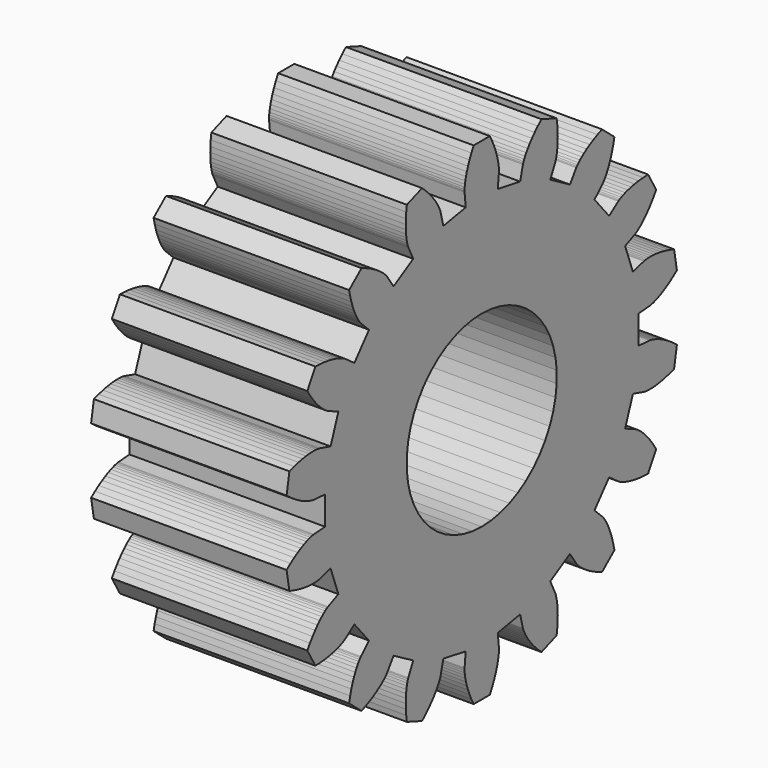
from build123d import *

# Parameters (mm, degrees)
PRISM_DEPTH               = 7
LINEAREXTRUDE_DEPTH       = 5
DIFFERENCE004_PITCH_ANGLE = 90


with BuildPart() as prism:
    # prism → prism (new body)
    with BuildSketch(Plane.XY.offset(-1)):
        Polygon((2.4, 0), (2.381075, 0.3008), (2.3246, 0.596856), (2.231464, 0.883499), (2.103136, 1.156209), (1.941641, 1.410685), (1.749525, 1.642913), (1.529818, 1.849232), (1.285984, 2.026387), (1.02187, 2.171585), (0.741641, 2.282536), (0.449715, 2.357489), (0.150697, 2.395264), (-0.150697, 2.395264), (-0.449715, 2.357489), (-0.741641, 2.282536), (-1.02187, 2.171585), (-1.285984, 2.026387), (-1.529818, 1.849232), (-1.749525, 1.642913), (-1.941641, 1.410685), (-2.103136, 1.156209), (-2.231464, 0.883499), (-2.3246, 0.596856), (-2.381075, 0.3008), (-2.4, 0), (-2.381075, -0.3008), (-2.3246, -0.596856), (-2.231464, -0.883499), (-2.103136, -1.156209), (-1.941641, -1.410685), (-1.749525, -1.642913), (-1.529818, -1.849232), (-1.285984, -2.026387), (-1.02187, -2.171585), (-0.741641, -2.282536), (-0.449715, -2.357489), (-0.150697, -2.395264), (0.150697, -2.395264), (0.449715, -2.357489), (0.741641, -2.282536), (1.02187, -2.171585), (1.285984, -2.026387), (1.529818, -1.849232), (1.749525, -1.642913), (1.941641, -1.410685), (2.103136, -1.156209), (2.231464, -0.883499), (2.3246, -0.596856), (2.381075, -0.3008), align=None)
    extrude(amount=PRISM_DEPTH)


with BuildPart() as pinion:
    # RefineLinearExtrude → LinearExtrude (new body)
    with BuildSketch(Plane(origin=(0, 0, 0), x_dir=(0, -1, 0), z_dir=(0, 0, -1))):
        Polygon((-0.504573, -5.68792), (-0.476443, -5.78688), (-0.438951, -5.89728), (-0.390882, -6.0184), (-0.331072, -6.14942), (-0.258414, -6.28943), (0.258414, -6.28943), (0.331072, -6.14942), (0.390882, -6.0184), (0.438951, -5.89728), (0.476443, -5.78688), (0.504573, -5.68792), (0.524602, -5.60104), (0.537828, -5.52677), (0.54558, -5.46553), (0.54921, -5.41766), (0.550092, -5.38338), (0.549605, -5.36281), (0.549136, -5.35596), (0.512344, -4.997112), (1.227667, -4.870981), (1.315827, -5.220772), (1.317729, -5.227369), (1.324307, -5.246865), (1.33686, -5.278776), (1.356644, -5.322518), (1.384874, -5.377413), (1.422704, -5.44268), (1.47124, -5.517471), (1.53152, -5.600842), (1.60451, -5.691761), (1.691105, -5.789136), (1.79212, -5.891798), (1.908282, -5.998514), (2.393941, -5.821748), (2.414331, -5.665331), (2.425723, -5.521757), (2.429468, -5.3915), (2.426939, -5.274935), (2.419527, -5.172322), (2.408633, -5.083832), (2.39566, -5.009517), (2.381999, -4.949319), (2.369037, -4.903094), (2.358142, -4.87058), (2.350649, -4.851417), (2.347865, -4.845141), (2.190559, -4.520517), (2.819603, -4.157338), (3.022082, -4.455881), (3.026126, -4.46143), (3.038975, -4.477501), (3.061685, -4.503194), (3.095236, -4.537531), (3.140539, -4.579461), (3.198411, -4.627853), (3.269599, -4.681533), (3.354758, -4.739259), (3.454443, -4.799731), (3.56912, -4.861616), (3.699155, -4.923538), (3.844811, -4.984088), (4.240724, -4.651878), (4.206387, -4.49792), (4.167986, -4.359108), (4.126954, -4.235426), (4.084711, -4.126756), (4.04265, -4.032866), (4.002148, -3.953438), (3.964539, -3.888042), (3.931113, -3.836147), (3.903124, -3.797143), (3.881765, -3.770316), (3.86817, -3.754872), (3.863407, -3.749926), (3.60456, -3.498681), (4.071454, -2.942259), (4.363829, -3.153546), (4.369527, -3.157377), (4.387098, -3.168084), (4.417226, -3.18446), (4.460498, -3.205251), (4.517409, -3.229158), (4.588342, -3.254839), (4.673597, -3.280933), (4.773364, -3.306052), (4.887719, -3.328783), (5.016646, -3.347714), (5.160018, -3.361427), (5.317599, -3.368508), (5.576013, -2.920922), (5.49109, -2.787993), (5.407528, -2.670686), (5.32667, -2.568497), (5.249807, -2.480828), (5.17817, -2.406987), (5.112944, -2.346201), (5.055237, -2.297612), (5.006078, -2.260279), (4.966436, -2.2332), (4.93719, -2.215296), (4.919132, -2.205433), (4.912965, -2.202414), (4.583798, -2.054853), (4.832227, -1.3723), (5.179234, -1.470846), (5.185899, -1.472497), (5.206072, -1.476549), (5.239984, -1.481633), (5.287757, -1.486371), (5.349413, -1.489371), (5.424851, -1.489243), (5.51389, -1.484604), (5.616231, -1.474086), (5.731464, -1.456334), (5.859091, -1.430028), (5.998506, -1.393878), (6.149006, -1.346636), (6.238753, -0.83766), (6.113487, -0.741793), (5.994843, -0.660141), (5.88391, -0.59177), (5.781698, -0.535676), (5.689126, -0.49079), (5.607044, -0.455978), (5.536199, -0.430056), (5.477235, -0.411788), (5.430723, -0.399901), (5.397117, -0.393079), (5.376775, -0.389987), (5.369947, -0.389259), (5.010162, -0.363179), (5.010162, 0.363179), (5.369947, 0.389259), (5.376775, 0.389987), (5.397117, 0.393079), (5.430723, 0.399901), (5.477235, 0.411788), (5.536199, 0.430056), (5.607044, 0.455978), (5.689126, 0.49079), (5.781698, 0.535676), (5.88391, 0.59177), (5.994843, 0.660141), (6.113487, 0.741793), (6.238753, 0.83766), (6.149006, 1.346636), (5.998506, 1.393878), (5.859091, 1.430028), (5.731464, 1.456334), (5.616231, 1.474086), (5.51389, 1.484604), (5.424851, 1.489243), (5.349413, 1.489371), (5.287757, 1.486371), (5.239984, 1.481633), (5.206072, 1.476549), (5.185899, 1.472497), (5.179234, 1.470846), (4.832227, 1.3723), (4.583797, 2.054855), (4.912965, 2.202416), (4.919131, 2.205435), (4.937189, 2.215298), (4.966435, 2.233202), (5.006077, 2.260281), (5.055236, 2.297614), (5.112943, 2.346203), (5.178169, 2.406989), (5.249806, 2.48083), (5.326669, 2.568499), (5.407527, 2.670688), (5.491089, 2.787995), (5.576012, 2.920924), (5.317598, 3.36851), (5.160017, 3.361429), (5.016645, 3.347716), (4.887717, 3.328785), (4.773362, 3.306054), (4.673595, 3.280935), (4.588341, 3.254841), (4.517408, 3.22916), (4.460497, 3.205253), (4.417225, 3.184462), (4.387097, 3.168085), (4.369526, 3.157379), (4.363828, 3.153547), (4.071452, 2.94226), (3.604562, 3.498679), (3.863409, 3.749923), (3.868172, 3.754869), (3.881767, 3.770314), (3.903126, 3.797141), (3.931116, 3.836145), (3.964542, 3.88804), (4.00215, 3.953436), (4.042652, 4.032864), (4.084714, 4.126753), (4.126957, 4.235424), (4.167988, 4.359105), (4.206389, 4.497918), (4.240727, 4.651875), (3.844814, 4.984086), (3.699158, 4.923536), (3.569123, 4.861614), (3.454445, 4.799729), (3.354761, 4.739257), (3.269602, 4.681531), (3.198413, 4.627851), (3.140542, 4.579459), (3.095239, 4.537529), (3.061688, 4.503192), (3.038978, 4.477499), (3.026128, 4.461428), (3.022085, 4.45588), (2.819606, 4.157337), (2.190558, 4.520518), (2.347864, 4.845141), (2.350648, 4.851417), (2.358141, 4.87058), (2.369036, 4.903095), (2.381998, 4.949319), (2.395659, 5.009517), (2.408632, 5.083832), (2.419526, 5.172323), (2.426938, 5.274936), (2.429466, 5.391501), (2.425722, 5.521757), (2.41433, 5.665332), (2.39394, 5.821749), (1.908281, 5.998514), (1.792118, 5.891798), (1.691104, 5.789136), (1.604508, 5.691761), (1.531518, 5.600842), (1.471239, 5.517471), (1.422703, 5.442681), (1.384873, 5.377413), (1.356643, 5.322518), (1.336859, 5.278776), (1.324306, 5.246865), (1.317728, 5.227369), (1.315826, 5.220772), (1.227666, 4.870981), (0.512344, 4.997112), (0.549136, 5.35596), (0.549605, 5.36281), (0.550092, 5.38338), (0.54921, 5.41766), (0.54558, 5.46553), (0.537828, 5.52677), (0.524602, 5.60104), (0.504573, 5.68792), (0.476443, 5.78688), (0.438951, 5.89728), (0.390882, 6.0184), (0.331072, 6.14942), (0.258414, 6.28943), (-0.258414, 6.28943), (-0.331072, 6.14942), (-0.390882, 6.0184), (-0.438951, 5.89728), (-0.476443, 5.78688), (-0.504573, 5.68792), (-0.524602, 5.60104), (-0.537828, 5.52677), (-0.54558, 5.46553), (-0.54921, 5.41766), (-0.550092, 5.38338), (-0.549605, 5.36281), (-0.549136, 5.35596), (-0.512344, 4.997112), (-1.227667, 4.870981), (-1.315827, 5.220772), (-1.317729, 5.227369), (-1.324307, 5.246865), (-1.33686, 5.278776), (-1.356644, 5.322518), (-1.384874, 5.377413), (-1.422704, 5.44268), (-1.47124, 5.517471), (-1.53152, 5.600842), (-1.60451, 5.691761), (-1.691105, 5.789136), (-1.79212, 5.891798), (-1.908282, 5.998514), (-2.393941, 5.821748), (-2.414331, 5.665331), (-2.425723, 5.521757), (-2.429468, 5.3915), (-2.426939, 5.274935), (-2.419527, 5.172322), (-2.408633, 5.083832), (-2.39566, 5.009517), (-2.381999, 4.949319), (-2.369037, 4.903094), (-2.358142, 4.87058), (-2.350649, 4.851417), (-2.347865, 4.845141), (-2.190559, 4.520517), (-2.819603, 4.157338), (-3.022082, 4.455881), (-3.026126, 4.46143), (-3.038975, 4.477501), (-3.061685, 4.503194), (-3.095236, 4.537531), (-3.140539, 4.579461), (-3.198411, 4.627853), (-3.269599, 4.681533), (-3.354758, 4.739259), (-3.454443, 4.799731), (-3.56912, 4.861616), (-3.699155, 4.923538), (-3.844811, 4.984088), (-4.240724, 4.651878), (-4.206387, 4.49792), (-4.167986, 4.359108), (-4.126954, 4.235426), (-4.084711, 4.126756), (-4.04265, 4.032866), (-4.002148, 3.953438), (-3.964539, 3.888042), (-3.931113, 3.836147), (-3.903124, 3.797143), (-3.881765, 3.770316), (-3.86817, 3.754872), (-3.863407, 3.749926), (-3.60456, 3.498681), (-4.071454, 2.942259), (-4.363829, 3.153546), (-4.369527, 3.157377), (-4.387098, 3.168084), (-4.417226, 3.18446), (-4.460498, 3.205251), (-4.517409, 3.229158), (-4.588342, 3.254839), (-4.673597, 3.280933), (-4.773364, 3.306052), (-4.887719, 3.328783), (-5.016646, 3.347714), (-5.160018, 3.361427), (-5.317599, 3.368508), (-5.576013, 2.920922), (-5.49109, 2.787993), (-5.407528, 2.670686), (-5.32667, 2.568497), (-5.249807, 2.480828), (-5.17817, 2.406987), (-5.112944, 2.346201), (-5.055237, 2.297612), (-5.006078, 2.260279), (-4.966436, 2.2332), (-4.93719, 2.215296), (-4.919132, 2.205433), (-4.912965, 2.202414), (-4.583798, 2.054853), (-4.832227, 1.3723), (-5.179234, 1.470846), (-5.185899, 1.472497), (-5.206072, 1.476549), (-5.239984, 1.481633), (-5.287757, 1.486371), (-5.349413, 1.489371), (-5.424851, 1.489243), (-5.51389, 1.484604), (-5.616231, 1.474086), (-5.731464, 1.456334), (-5.859091, 1.430028), (-5.998506, 1.393878), (-6.149006, 1.346636), (-6.238753, 0.83766), (-6.113487, 0.741793), (-5.994843, 0.660141), (-5.88391, 0.59177), (-5.781698, 0.535676), (-5.689126, 0.49079), (-5.607044, 0.455978), (-5.536199, 0.430056), (-5.477235, 0.411788), (-5.430723, 0.399901), (-5.397117, 0.393079), (-5.376775, 0.389987), (-5.369947, 0.389259), (-5.010162, 0.363179), (-5.010162, -0.363179), (-5.369947, -0.389259), (-5.376775, -0.389987), (-5.397117, -0.393079), (-5.430723, -0.399901), (-5.477235, -0.411788), (-5.536199, -0.430056), (-5.607044, -0.455978), (-5.689126, -0.49079), (-5.781698, -0.535676), (-5.88391, -0.59177), (-5.994843, -0.660141), (-6.113487, -0.741793), (-6.238753, -0.83766), (-6.149006, -1.346636), (-5.998506, -1.393878), (-5.859091, -1.430028), (-5.731464, -1.456334), (-5.616231, -1.474086), (-5.51389, -1.484604), (-5.424851, -1.489243), (-5.349413, -1.489371), (-5.287757, -1.486371), (-5.239984, -1.481633), (-5.206072, -1.476549), (-5.185899, -1.472497), (-5.179234, -1.470846), (-4.832227, -1.3723), (-4.583798, -2.054853), (-4.912965, -2.202414), (-4.919132, -2.205433), (-4.93719, -2.215296), (-4.966436, -2.2332), (-5.006078, -2.260279), (-5.055237, -2.297612), (-5.112944, -2.346201), (-5.17817, -2.406987), (-5.249807, -2.480828), (-5.32667, -2.568497), (-5.407528, -2.670686), (-5.49109, -2.787993), (-5.576013, -2.920922), (-5.317599, -3.368508), (-5.160018, -3.361427), (-5.016646, -3.347714), (-4.887719, -3.328783), (-4.773364, -3.306052), (-4.673597, -3.280933), (-4.588342, -3.254839), (-4.517409, -3.229158), (-4.460498, -3.205251), (-4.417226, -3.18446), (-4.387098, -3.168084), (-4.369527, -3.157377), (-4.363829, -3.153546), (-4.071454, -2.942259), (-3.60456, -3.498681), (-3.863407, -3.749926), (-3.86817, -3.754872), (-3.881765, -3.770316), (-3.903124, -3.797143), (-3.931113, -3.836147), (-3.964539, -3.888042), (-4.002148, -3.953438), (-4.04265, -4.032866), (-4.084711, -4.126756), (-4.126954, -4.235426), (-4.167986, -4.359108), (-4.206387, -4.49792), (-4.240724, -4.651878), (-3.844811, -4.984088), (-3.699155, -4.923538), (-3.56912, -4.861616), (-3.454443, -4.799731), (-3.354758, -4.739259), (-3.269599, -4.681533), (-3.198411, -4.627853), (-3.140539, -4.579461), (-3.095236, -4.537531), (-3.061685, -4.503194), (-3.038975, -4.477501), (-3.026126, -4.46143), (-3.022082, -4.455881), (-2.819603, -4.157338), (-2.190559, -4.520517), (-2.347865, -4.845141), (-2.350649, -4.851417), (-2.358142, -4.87058), (-2.369037, -4.903094), (-2.381999, -4.949319), (-2.39566, -5.009517), (-2.408633, -5.083832), (-2.419527, -5.172322), (-2.426939, -5.274935), (-2.429468, -5.3915), (-2.425723, -5.521757), (-2.414331, -5.665331), (-2.393941, -5.821748), (-1.908282, -5.998514), (-1.79212, -5.891798), (-1.691105, -5.789136), (-1.60451, -5.691761), (-1.53152, -5.600842), (-1.47124, -5.517471), (-1.422704, -5.44268), (-1.384874, -5.377413), (-1.356644, -5.322518), (-1.33686, -5.278776), (-1.324307, -5.246865), (-1.317729, -5.227369), (-1.315827, -5.220772), (-1.227667, -4.870981), (-0.512344, -4.997112), (-0.549136, -5.35596), (-0.549605, -5.36281), (-0.550092, -5.38338), (-0.54921, -5.41766), (-0.54558, -5.46553), (-0.537828, -5.52677), (-0.524602, -5.60104), align=None)
    extrude(amount=-LINEAREXTRUDE_DEPTH)

    # difference004: cut prism
    add(prism.part, mode=Mode.SUBTRACT)


with BuildPart() as pinion_1:
    # difference004 pitch: moved
    add(pinion.part.rotate(Axis((0, 0, 0), (0, 1, 0)), DIFFERENCE004_PITCH_ANGLE))


with BuildPart() as pinion_2:
    # difference004 placement: moved
    add(pinion_1.part.moved(Location((5, 18.5, 16))))


solid = pinion_2.part
